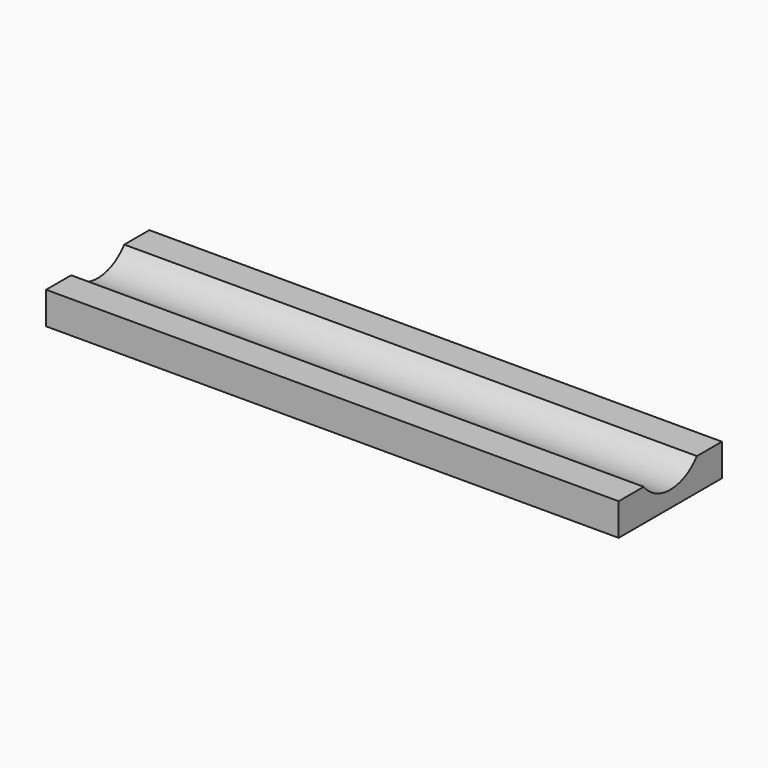
from build123d import *

# Parameters (mm, degrees)
F0_W     = 50.8
F0_H     = 12.7
F1_DEPTH = 225.425
F2_R     = 16.652798
F3_DEPTH = 266.7


with BuildPart() as f1:
    # F0 (on Right) → F1 (new body)
    with BuildSketch(Plane.YZ):
        Rectangle(F0_W, F0_H)
    extrude(amount=F1_DEPTH)

    # F2 (on face) → F3 (cut)
    with BuildSketch(Plane(origin=(0, 0, 0), x_dir=(0, -1, 0), z_dir=(-1, 0, 0))):
        with Locations((0, 16.652798)):
            Circle(F2_R)
    extrude(amount=-F3_DEPTH, mode=Mode.SUBTRACT)


solid = f1.part
